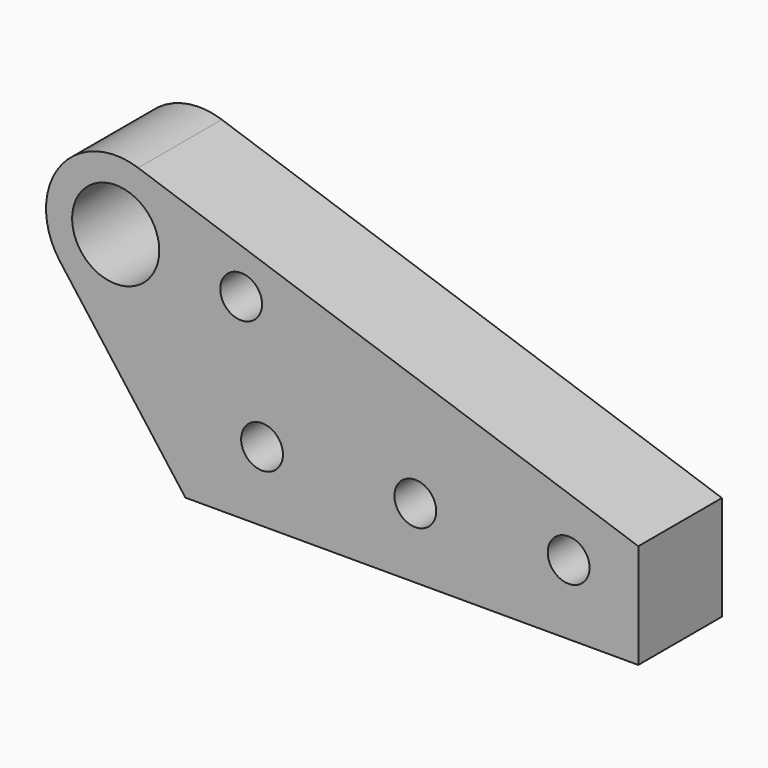
from build123d import *

# Parameters (mm, degrees)
F0_R     = 3
F0_R_2   = 6.25
F1_DEPTH = 15


with BuildPart() as f1:
    # F0 (on Front) → F1 (new body)
    with BuildSketch(Plane.XZ):
        with BuildLine():
            Line((-65, 0), (0, 0))
            Line((0, 0), (0, 15))
            Line((0, 15), (-71.773622, 39.465225))
            ThreePointArc((-71.773622, 39.465225), (-83.092599, 35.874508), (-83, 24))
            Line((-83, 24), (-65, 0))
        make_face()
        with Locations((-54, 10)):
            Circle(F0_R, mode=Mode.SUBTRACT)
        with Locations((-32, 10)):
            Circle(F0_R, mode=Mode.SUBTRACT)
        with Locations((-10, 10)):
            Circle(F0_R, mode=Mode.SUBTRACT)
        with Locations((-57, 28)):
            Circle(F0_R, mode=Mode.SUBTRACT)
        with Locations((-75, 30)):
            Circle(F0_R_2, mode=Mode.SUBTRACT)
    extrude(amount=F1_DEPTH)


solid = f1.part
